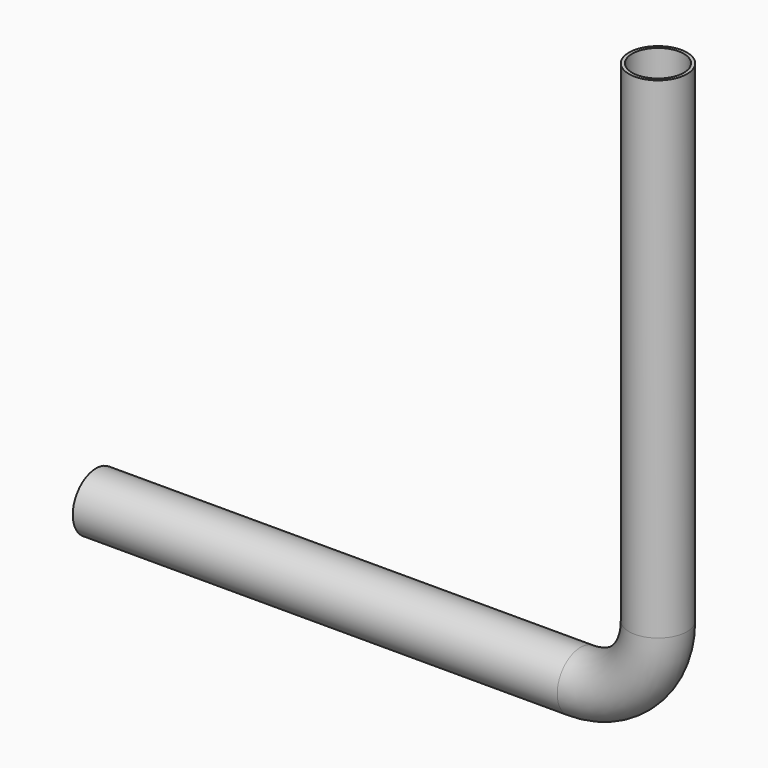
from build123d import *

# Parameters (mm, degrees)
F1_R     = 57.15
F1_R_2   = 50.8
F3_DEPTH = 812.8
F4_DEPTH = 800.1


with BuildPart() as f2:
    # F2: sweep along a path in F0
    with BuildLine(Plane.XZ) as f2_path:
        Line((0, 0), (152.4, 0))
        ThreePointArc((152.4, 0), (260.1630734528, 44.6369265472), (304.8, 152.4))
        Line((304.8, 152.4), (304.8, 304.8))
    # F1 (on Right) → F2 (sweep)
    with BuildSketch(Plane.YZ):
        Circle(F1_R)
        Circle(F1_R_2, mode=Mode.SUBTRACT)
    sweep(path=f2_path.line)

    # F3 (add): a face of the model
    f3_faces = [f2.faces().sort_by_distance(p)[0] for p in [
        (304.8, -55.5335538982, 304.8),
    ]]
    extrude(f3_faces, amount=F3_DEPTH)

    # F4 (add): a face of the model
    f4_faces = [f2.faces().sort_by_distance(p)[0] for p in [
        (0, -55.5335538982, 0),
    ]]
    extrude(f4_faces, amount=F4_DEPTH)


solid = f2.part
